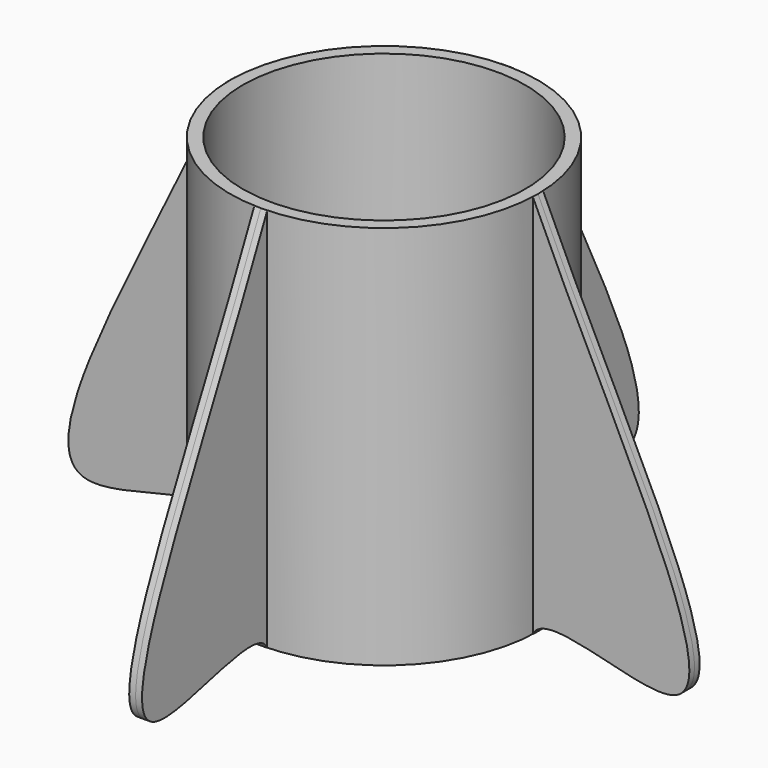
from build123d import *

# Parameters (mm, degrees)
F0_W     = 10
F0_H     = 300
F2_DEPTH = 5
F3_COUNT = 4


with BuildPart() as f1:
    # F0 (on Front) → F1 (revolve)
    with BuildSketch(Plane.XZ):
        with Locations((-115, 0.0769793987)):
            Rectangle(F0_W, F0_H)
    revolve(axis=Axis((0, 0, 4.6833008528), (0, 0, -1)))

    # F0 (on Front) → F2 (join, symmetric)
    with BuildSketch(Plane.XZ):
        with BuildLine():
            Line((-120, -149.9230206013), (-120, 150.0769793987))
            add(Edge.make_bspline(
                [(-120, 150.0769793987), (-183.7929189205, 7.6976614073), (-328.5291813645, -228.687468868), (-130.0751566887, -127.0370483398), (-120, -149.9230206013)],
                knots=[0, 0, 0, 0, 0.632526096, 1, 1, 1, 1], degree=3))
        make_face()
    extrude(amount=F2_DEPTH, both=True)

    # F3: F1 ×4 about axis
    f3_axis = Axis((0, 0, 4.6833008528), (0, 0, -1))


with BuildPart() as f1_1:
    add(f1.part)
    for i in range(1, F3_COUNT):
        add(f1.part.rotate(f3_axis, i * 360 / F3_COUNT))


solid = f1_1.part
